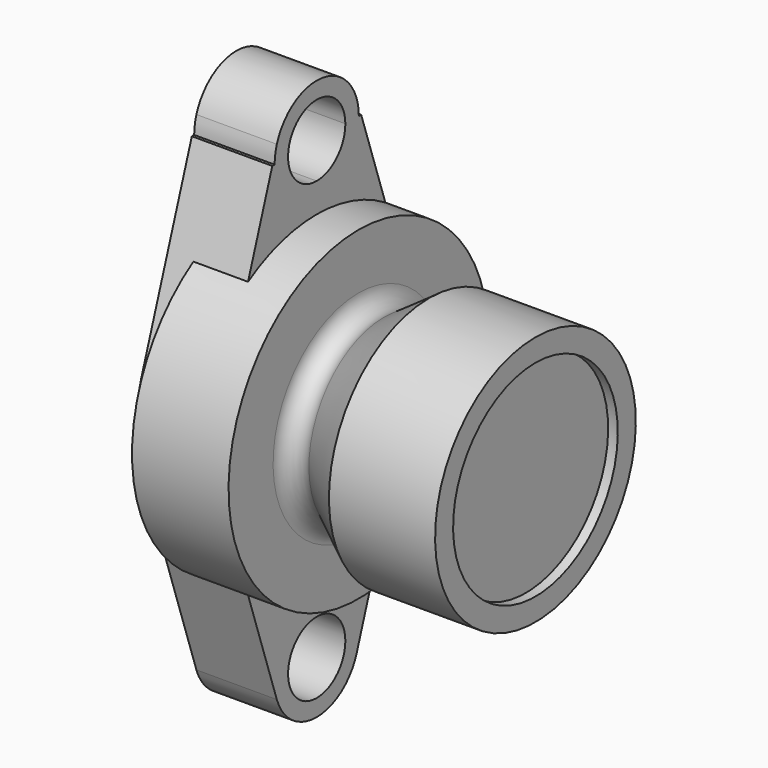
from build123d import *

# Parameters (mm, degrees)
F2_R     = 11.124772
F3_DEPTH = 25


with BuildPart() as f1:
    # F0 (on Front) → F1 (revolve)
    with BuildSketch(Plane.XZ):
        with BuildLine():
            Line((8, 77.180415), (0, 77.180415))
            Line((0, 77.180415), (0, 69.180415))
            Line((0, 69.180415), (30, 67.180415))
            Line((30, 67.180415), (30, 64.180415))
            Line((30, 64.180415), (72, 64.180415))
            Line((72, 64.180415), (72, 38.180415))
            Line((72, 38.180415), (90, 38.180415))
            Line((90, 38.180415), (90, 70.180415))
            Line((90, 70.180415), (93, 70.180415))
            Line((93, 70.180415), (93, 77.180415))
            Line((93, 77.180415), (60, 77.180415))
            Line((60, 77.180415), (45.867882, 67.285))
            ThreePointArc((45.867882, 67.285), (40.691257, 66.945706), (38, 71.38076))
            Line((38, 71.38076), (38, 88.685571))
            Line((38, 88.685571), (8, 88.685571))
            Line((8, 88.685571), (8, 77.180415))
        make_face()
    revolve(axis=Axis((81, 0, 38.180415), (-1, 0, 0)))

    # F2 (on Right) → F3 (join)
    with BuildSketch(Plane.YZ):
        with BuildLine():
            ThreePointArc((-36.949556, 50.65961), (-22.741057, 69.863917), (0, 77.180415))
            ThreePointArc((0, 77.180415), (22.741057, 69.863917), (36.949556, 50.65961))
            Line((36.949556, 50.65961), (17.267769, 108.935267))
            Line((17.267769, 108.935267), (16.359907, 108.935267))
            ThreePointArc((16.359907, 108.935267), (16.143443, 111.58778), (15.499777, 114.1701))
            ThreePointArc((15.499777, 114.1701), (0, 125.295174), (-15.499777, 114.1701))
            ThreePointArc((-15.499777, 114.1701), (-16.143443, 111.58778), (-16.359907, 108.935267))
            Line((-16.359907, 108.935267), (-17.267769, 108.935267))
            Line((-17.267769, 108.935267), (-36.949556, 50.65961))
        make_face()
        with BuildLine():
            ThreePointArc((11.124772, 108.935267), (7.866401, 101.068865), (0, 97.810495))
            ThreePointArc((0, 97.810495), (-7.866401, 116.801668), (11.124772, 108.935267))
        make_face(mode=Mode.SUBTRACT)
        with BuildLine():
            Line((15.499777, -37.80927), (36.949556, 25.70122))
            ThreePointArc((36.949556, 25.70122), (0, -0.819585), (-36.949556, 25.70122))
            Line((-36.949556, 25.70122), (-15.499777, -37.80927))
            ThreePointArc((-15.499777, -37.80927), (0, -48.934344), (15.499777, -37.80927))
        make_face()
        with Locations((0, -32.574437)):
            Circle(F2_R, mode=Mode.SUBTRACT)
    extrude(amount=F3_DEPTH)


solid = f1.part
